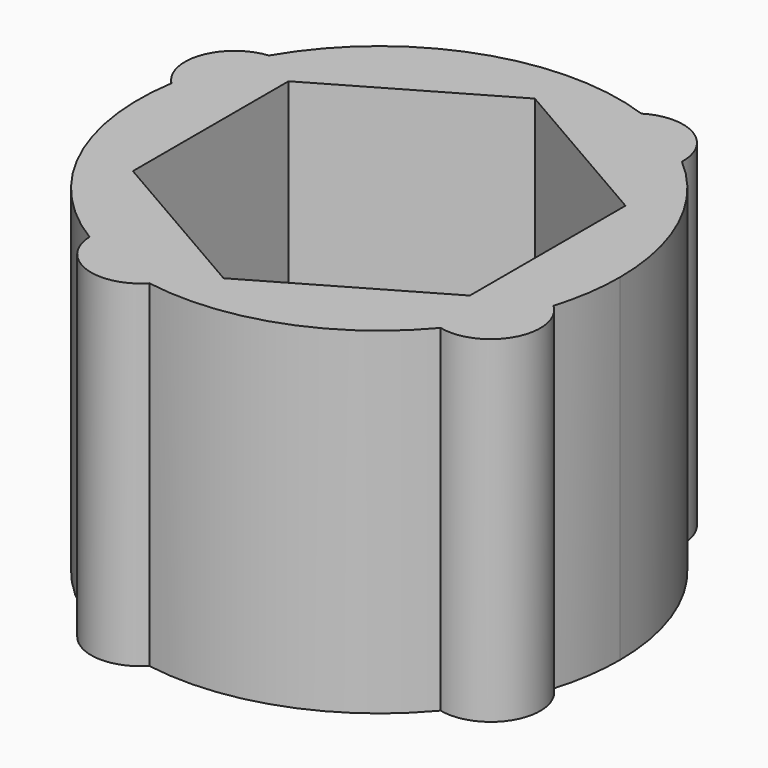
from build123d import *

# Parameters (mm, degrees)
F1_DEPTH = 5
F0_R     = 2
F2_DEPTH = 2


with BuildPart() as f1:
    # F0 (on Top) → F1 (new body)
    with BuildSketch(Plane.XY):
        with BuildLine():
            ThreePointArc((4.784411, -1.45238), (4.945809, -0.734147), (5, 0))
            ThreePointArc((5, 0), (4.540968, 2.092751), (3.248156, 3.801247))
            ThreePointArc((3.248156, 3.801247), (2.505712, 4.326824), (1.680332, 4.709191))
            ThreePointArc((1.680332, 4.709191), (-1.708979, 4.698871), (-4.313011, 2.529413))
            ThreePointArc((-4.313011, 2.529413), (-4.708174, 1.683181), (-4.939066, 0.778222))
            ThreePointArc((-4.939066, 0.778222), (-4.538283, -2.098569), (-2.606001, -4.267172))
            ThreePointArc((-2.606001, -4.267172), (-1.749792, -4.683826), (-0.830123, -4.930608))
            ThreePointArc((-0.830123, -4.930608), (1.734435, -4.689535), (3.838668, -3.203846))
            ThreePointArc((3.838668, -3.203846), (4.399578, -2.375651), (4.784411, -1.45238))
        make_face()
        Polygon((-3.5, -2.020726), (-3.5, 2.020726), (0, 4.041452), (3.5, 2.020726), (3.5, -2.020726), (0, -4.041452), align=None, mode=Mode.SUBTRACT)
        with BuildLine():
            ThreePointArc((3.838668, -3.203846), (4.984722, -2.691613), (4.784411, -1.45238))
            ThreePointArc((4.784411, -1.45238), (4.399578, -2.375651), (3.838668, -3.203846))
        make_face()
        with BuildLine():
            ThreePointArc((1.680332, 4.709191), (2.505712, 4.326824), (3.248156, 3.801247))
            ThreePointArc((3.248156, 3.801247), (2.734831, 4.722465), (1.680332, 4.709191))
        make_face()
        with BuildLine():
            ThreePointArc((-4.939066, 0.778222), (-4.708174, 1.683181), (-4.313011, 2.529413))
            ThreePointArc((-4.313011, 2.529413), (-5.178935, 1.851479), (-4.939066, 0.778222))
        make_face()
        with BuildLine():
            ThreePointArc((-2.606001, -4.267172), (-1.937545, -5.1864), (-0.830123, -4.930608))
            ThreePointArc((-0.830123, -4.930608), (-1.749792, -4.683826), (-2.606001, -4.267172))
        make_face()
    extrude(amount=F1_DEPTH)

    # F0 (on Top) → F2 (join)
    with BuildSketch(Plane.XY):
        with BuildLine():
            ThreePointArc((4.784411, -1.45238), (4.945809, -0.734147), (5, 0))
            ThreePointArc((5, 0), (4.540968, 2.092751), (3.248156, 3.801247))
            ThreePointArc((3.248156, 3.801247), (2.505712, 4.326824), (1.680332, 4.709191))
            ThreePointArc((1.680332, 4.709191), (-1.708979, 4.698871), (-4.313011, 2.529413))
            ThreePointArc((-4.313011, 2.529413), (-4.708174, 1.683181), (-4.939066, 0.778222))
            ThreePointArc((-4.939066, 0.778222), (-4.538283, -2.098569), (-2.606001, -4.267172))
            ThreePointArc((-2.606001, -4.267172), (-1.749792, -4.683826), (-0.830123, -4.930608))
            ThreePointArc((-0.830123, -4.930608), (1.734435, -4.689535), (3.838668, -3.203846))
            ThreePointArc((3.838668, -3.203846), (4.399578, -2.375651), (4.784411, -1.45238))
        make_face()
        Polygon((-3.5, -2.020726), (-3.5, 2.020726), (0, 4.041452), (3.5, 2.020726), (3.5, -2.020726), (0, -4.041452), align=None, mode=Mode.SUBTRACT)
        Polygon((0, 4.041452), (-3.5, 2.020726), (-3.5, -2.020726), (0, -4.041452), (3.5, -2.020726), (3.5, 2.020726), align=None)
        Circle(F0_R, mode=Mode.SUBTRACT)
        with BuildLine():
            ThreePointArc((-4.939066, 0.778222), (-4.708174, 1.683181), (-4.313011, 2.529413))
            ThreePointArc((-4.313011, 2.529413), (-5.178935, 1.851479), (-4.939066, 0.778222))
        make_face()
        with BuildLine():
            ThreePointArc((-2.606001, -4.267172), (-1.937545, -5.1864), (-0.830123, -4.930608))
            ThreePointArc((-0.830123, -4.930608), (-1.749792, -4.683826), (-2.606001, -4.267172))
        make_face()
        with BuildLine():
            ThreePointArc((3.838668, -3.203846), (4.984722, -2.691613), (4.784411, -1.45238))
            ThreePointArc((4.784411, -1.45238), (4.399578, -2.375651), (3.838668, -3.203846))
        make_face()
        with BuildLine():
            ThreePointArc((1.680332, 4.709191), (2.505712, 4.326824), (3.248156, 3.801247))
            ThreePointArc((3.248156, 3.801247), (2.734831, 4.722465), (1.680332, 4.709191))
        make_face()
    extrude(amount=-F2_DEPTH)


solid = f1.part
